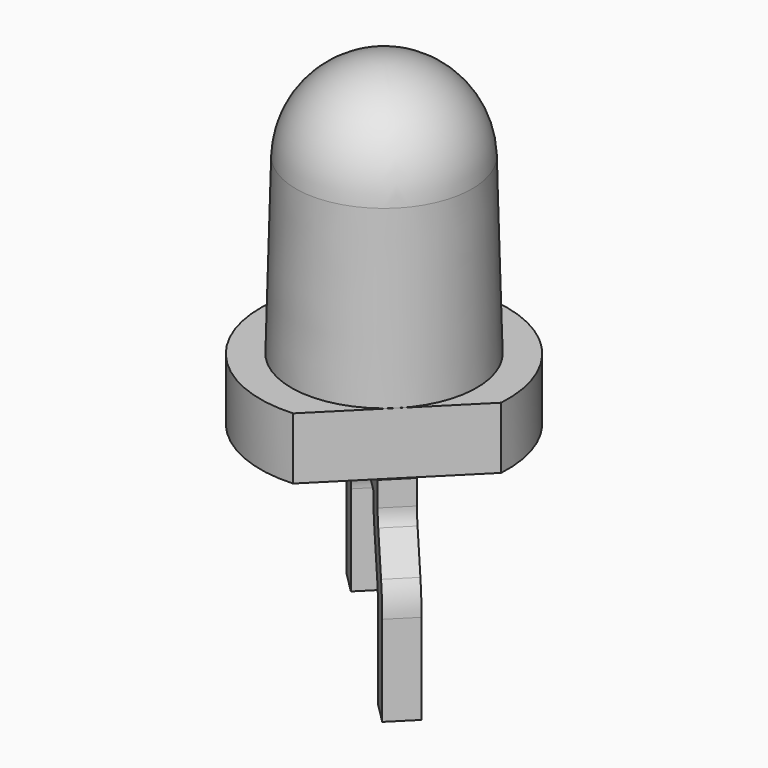
from build123d import *

# Parameters (mm, degrees)
PAD_DEPTH            = 1
PAD001_DEPTH         = 0.25
BODY_PLACEMENT_ANGLE = 45


with BuildPart() as part:
    # Sketch → Pad (new body)
    with BuildSketch(Plane.XY):
        with BuildLine():
            ThreePointArc((1.3228756555, -1.5), (0, 2), (-1.3228756555, -1.5))
            Line((-1.3228756555, -1.5), (1.3228756555, -1.5))
        make_face()
    extrude(amount=PAD_DEPTH)

    # Sketch001 → Revolution (revolve)
    with BuildSketch(Plane.YZ):
        with BuildLine():
            Line((0, 5.2), (0, 1))
            Line((0, 1), (-1.5, 1))
            Line((-1.5, 1), (-1.4264055883, 3.8104571954))
            ThreePointArc((0, 5.2), (-0.9956734038, 4.7951927894), (-1.4264055883, 3.8104571954))
        make_face()
    revolve(axis=Axis((0, 0, 0), (0, 0, 1)))

    # Sketch002 → Pad001 (join, symmetric)
    with BuildSketch(Plane.YZ):
        with BuildLine():
            Line((-0.325, 0), (-1.52, 0))
            Line((-1.52, 0), (-1.52, -0.4))
            ThreePointArc((-1.5869872981, -0.65), (-1.5370370869, -0.5294095226), (-1.52, -0.4))
            Line((-1.5869872981, -0.65), (-1.912076628, -1.2130712364))
            ThreePointArc((-1.912076628, -1.2130712364), (-2.0119770505, -1.4542521913), (-2.0460512242, -1.7130712364))
            Line((-2.0460512242, -1.7130712364), (-2.0460512242, -3.175))
            Line((-2.0460512242, -3.175), (-1.5460512242, -3.175))
            Line((-1.5460512242, -3.175), (-1.5460512242, -1.7130712364))
            ThreePointArc((-1.4790639261, -1.4630712364), (-1.5290141374, -1.5836617138), (-1.5460512242, -1.7130712364))
            Line((-1.1539745962, -0.9), (-1.4790639261, -1.4630712364))
            ThreePointArc((-1.1539745962, -0.9), (-1.0540741737, -0.6588190451), (-1.02, -0.4))
            Line((-0.325, -0.4), (-1.02, -0.4))
            Line((-0.325, 0), (-0.325, -0.4))
        make_face()
        with BuildLine():
            Line((0.325, 0), (1.52, 0))
            Line((1.52, 0), (1.52, -0.4))
            ThreePointArc((1.52, -0.4), (1.5370370869, -0.5294095226), (1.5869872981, -0.65))
            Line((1.5869872981, -0.65), (1.912076628, -1.2130712364))
            ThreePointArc((2.0460512242, -1.7130712364), (2.0119770505, -1.4542521913), (1.912076628, -1.2130712364))
            Line((2.0460512242, -1.7130712364), (2.0460512242, -3.175))
            Line((2.0460512242, -3.175), (1.5460512242, -3.175))
            Line((1.5460512242, -3.175), (1.5460512242, -1.7130712364))
            ThreePointArc((1.5460512242, -1.7130712364), (1.5290141374, -1.5836617138), (1.4790639261, -1.4630712364))
            Line((1.1539745962, -0.9), (1.4790639261, -1.4630712364))
            ThreePointArc((1.02, -0.4), (1.0540741737, -0.6588190451), (1.1539745962, -0.9))
            Line((0.325, -0.4), (1.02, -0.4))
            Line((0.325, 0), (0.325, -0.4))
        make_face()
    extrude(amount=PAD001_DEPTH, both=True)


with BuildPart() as part_1:
    # Body placement: moved
    add(part.part.moved(Location((-3.81, 0, 3.575))).rotate(Axis((-3.81, 0, 3.575), (0, 0, 1)), BODY_PLACEMENT_ANGLE))


with BuildPart() as part_2:
    # Clone008 placement: moved
    add(part_1.part.moved(Location((7.62, 0, 0.0445))))


solid = part_2.part
